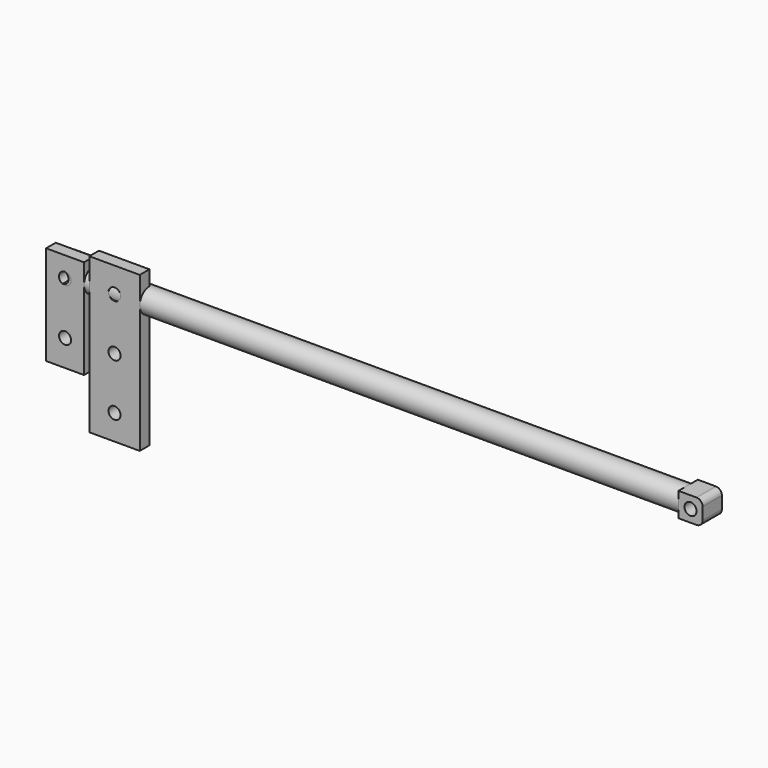
from build123d import *

# Parameters (mm, degrees)
F0_W     = 100
F0_H     = 2
F0_R     = 1
F2_DEPTH = 2
F3_W     = 6.2882156768
F3_H     = 16.4366154931
F3_R     = 1
F4_DEPTH = 2
F5_W     = 8.3588625378
F5_H     = 25.6652788855
F5_R     = 1
F6_DEPTH = 2


with BuildPart() as f1:
    # F0 (on Front) → F1 (revolve)
    with BuildSketch(Plane.XZ):
        with Locations((-6.3045942187, 3.8910947517)):
            Rectangle(F0_W, F0_H)
    revolve(axis=Axis((-6.3045942187, 0, 2.8910947517), (1, 0, 0)))

    # F0 (on Front) → F2 (join, symmetric)
    with BuildSketch(Plane.XZ):
        with BuildLine():
            Line((-56.3045942187, 2.8910947517), (-56.3045942187, 4.8910947517))
            Line((-56.3045942187, 4.8910947517), (-59.3045942187, 4.8910947517))
            ThreePointArc((-59.3045942187, 4.8910947517), (-60.011701, 4.5982015329), (-60.3045942187, 3.8910947517))
            Line((-60.3045942187, 3.8910947517), (-60.3045942187, 1.8910947517))
            ThreePointArc((-60.3045942187, 1.8910947517), (-60.011701, 1.1839879704), (-59.3045942187, 0.8910947517))
            Line((-59.3045942187, 0.8910947517), (-56.3045942187, 0.8910947517))
            Line((-56.3045942187, 0.8910947517), (-56.3045942187, 2.8910947517))
        make_face()
        with Locations((-58.3045942187, 2.8910947517)):
            Circle(F0_R, mode=Mode.SUBTRACT)
        with BuildLine():
            Line((46.6954057813, 4.8910947517), (43.6954057813, 4.8910947517))
            Line((43.6954057813, 4.8910947517), (43.6954057813, 2.8910947517))
            Line((43.6954057813, 2.8910947517), (43.6954057813, 0.8910947517))
            Line((43.6954057813, 0.8910947517), (46.6954057813, 0.8910947517))
            ThreePointArc((46.6954057813, 0.8910947517), (47.4025125625, 1.1839879705), (47.6954057813, 1.8910947517))
            Line((47.6954057813, 1.8910947517), (47.6954057813, 3.8910947517))
            ThreePointArc((47.6954057813, 3.8910947517), (47.4025125625, 4.5982015328), (46.6954057813, 4.8910947517))
        make_face()
        with Locations((45.6954057813, 2.8910947517)):
            Circle(F0_R, mode=Mode.SUBTRACT)
    extrude(amount=F2_DEPTH, both=True)


with BuildPart() as f4:
    # F3 (on Front) → F4 (new body)
    with BuildSketch(Plane.XZ):
        with Locations((-57.8802218475, -2.0229713348)):
            Rectangle(F3_W, F3_H)
        with Locations((-57.8802218475, -5.8555478984)):
            Circle(F3_R, mode=Mode.SUBTRACT)
        with Locations((-57.8802218475, 2.797742829)):
            Circle(F3_R, mode=Mode.SUBTRACT)
    extrude(amount=F4_DEPTH)


with BuildPart() as f6:
    # F5 (on Front) → F6 (new body)
    with BuildSketch(Plane.XZ):
        with Locations((-49.6881123006, -5.4697235934)):
            Rectangle(F5_W, F5_H)
        with Locations((-49.6880297471, -14.1228492146)):
            Circle(F5_R, mode=Mode.SUBTRACT)
        with Locations((-49.6880297471, -5.4697235934)):
            Circle(F5_R, mode=Mode.SUBTRACT)
        with Locations((-49.6880297471, 3.1835671339)):
            Circle(F5_R, mode=Mode.SUBTRACT)
    extrude(amount=F6_DEPTH)


solid = Compound([f1.part, f4.part, f6.part])
